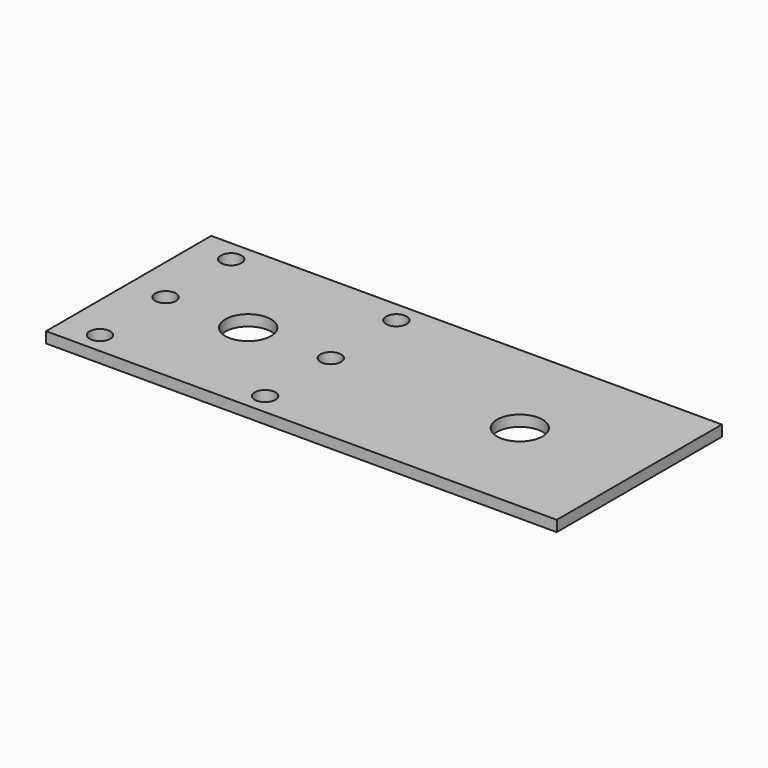
from build123d import *

# Parameters (mm, degrees)
F0_W     = 119.38
F0_H     = 48.26
F0_R     = 5.334
F1_DEPTH = 2.54
F2_DEPTH = 2.54
F3_R     = 2.413
F4_DEPTH = 2.541
F5_R     = 2.413
F6_DEPTH = 2.541


with BuildPart() as f1:
    # F0 (on Top) → F1 (new body)
    with BuildSketch(Plane.XY):
        Rectangle(F0_W, F0_H)
        with Locations((-31.75, 0)):
            Circle(F0_R, mode=Mode.SUBTRACT)
        with Locations((31.75, 0)):
            Circle(F0_R, mode=Mode.SUBTRACT)
    extrude(amount=F1_DEPTH)

    # F0 (on Top) → F2 (join)
    with BuildSketch(Plane.XY):
        Rectangle(F0_W, F0_H)
        with Locations((-31.75, 0)):
            Circle(F0_R, mode=Mode.SUBTRACT)
        with Locations((31.75, 0)):
            Circle(F0_R, mode=Mode.SUBTRACT)
    extrude(amount=F2_DEPTH)

    # F3 (on face) → F4 (cut, through all)
    with BuildSketch(Plane.XY.offset(2.54)):
        with Locations((-51.054, 0)):
            Circle(F3_R)
        with Locations((-51.054, 19.177)):
            Circle(F3_R)
        with Locations((-51.054, -19.177)):
            Circle(F3_R)
    extrude(amount=-F4_DEPTH, mode=Mode.SUBTRACT)

    # F5 (on face) → F6 (cut, through all)
    with BuildSketch(Plane.XY.offset(2.54)):
        with Locations((-12.446, 0)):
            Circle(F5_R)
        with Locations((-12.446, 19.177)):
            Circle(F5_R)
        with Locations((-12.446, -19.177)):
            Circle(F5_R)
    extrude(amount=-F6_DEPTH, mode=Mode.SUBTRACT)


solid = f1.part
